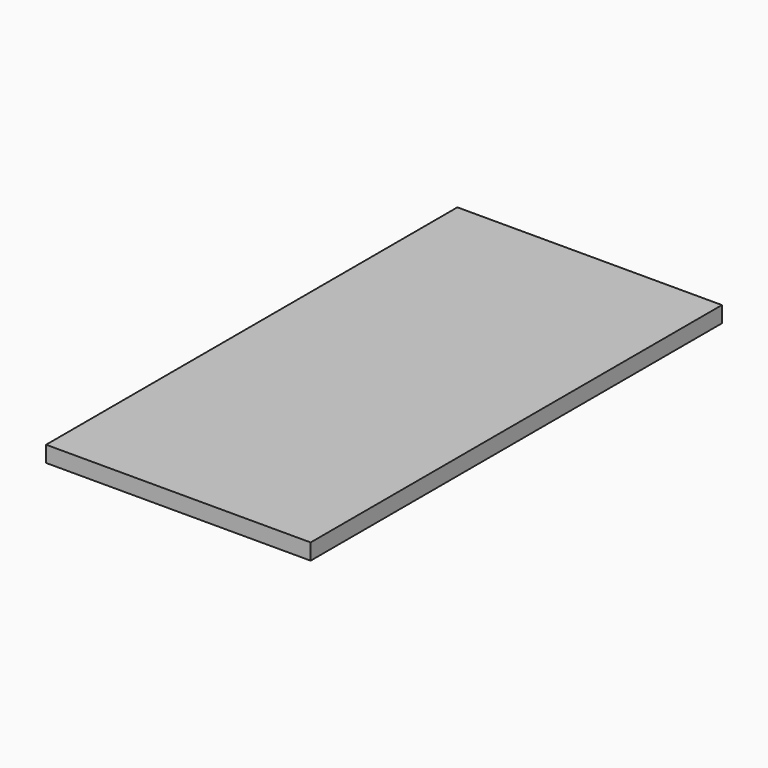
from build123d import *

# Parameters (mm, degrees)
SKETCH_W      = 49.4
SKETCH_H      = 96
PAD_DEPTH     = 3
SKETCH001_R   = 3.1
SKETCH001_R_2 = 2.674465
SKETCH001_R_3 = 2.054582
POCKET_DEPTH  = 2


with BuildPart() as part:
    # Sketch → Pad (new body)
    with BuildSketch(Plane.XY):
        with Locations((24.7, 100)):
            Rectangle(SKETCH_W, SKETCH_H)
    extrude(amount=PAD_DEPTH)

    # Sketch001 → Pocket (cut)
    with BuildSketch(Plane.XY):
        with Locations((24.7, 142)):
            Circle(SKETCH001_R)
        with Locations((6, 58)):
            Circle(SKETCH001_R_2)
        with Locations((43.4, 58)):
            Circle(SKETCH001_R_3)
    extrude(amount=POCKET_DEPTH, mode=Mode.SUBTRACT)


solid = part.part
